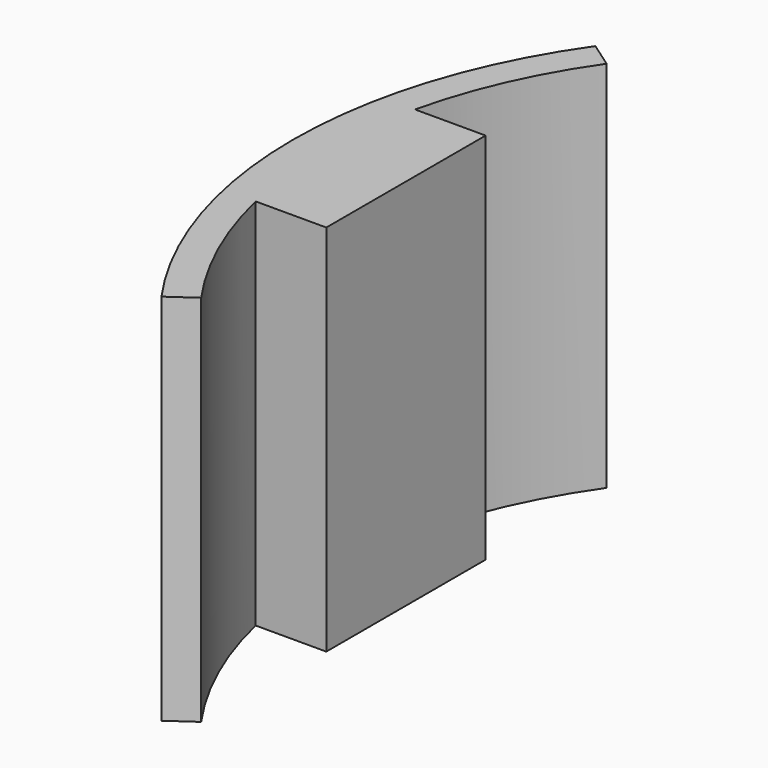
from build123d import *

# Parameters (mm, degrees)
F1_DEPTH = 38.1


with BuildPart() as f1:
    # F0 (on Top) → F1 (new body)
    with BuildSketch(Plane.XY):
        with BuildLine():
            ThreePointArc((-36.93147, -25.859694), (-41.183422, -18.346198), (-43.925296, -10.16))
            Line((-43.925296, -10.16), (-36.720354, -10.16))
            Line((-36.720354, -10.16), (-36.720354, 10.16))
            Line((-36.720354, 10.16), (-43.925296, 10.16))
            ThreePointArc((-43.925296, 10.16), (-41.183422, 18.346198), (-36.93147, 25.859694))
            Line((-36.93147, 25.859694), (-39.532278, 27.680799))
            ThreePointArc((-39.532278, 27.680799), (-48.26, 0), (-39.532278, -27.680799))
            Line((-39.532278, -27.680799), (-36.93147, -25.859694))
        make_face()
    extrude(amount=F1_DEPTH)


solid = f1.part
